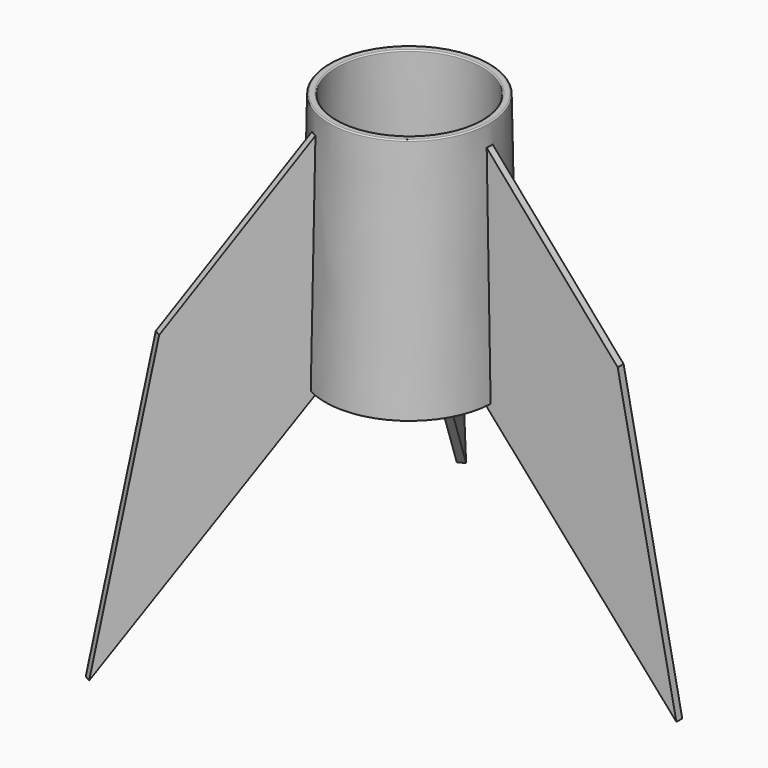
from build123d import *

# Parameters (mm, degrees)
F4_DEPTH = 0.6
F5_COUNT = 3


with BuildPart() as f2:
    # F1 (on Front) → F2 (revolve)
    with BuildSketch(Plane.XZ):
        with BuildLine():
            ThreePointArc((12.049969539, 40.0034904813), (11.9095920603, 39.9424526163), (11.8534904813, 39.800030461))
            Line((11.8534904813, 39.800030461), (12.5482025971, 0))
            Line((12.5482025971, 0), (13.7480198313, 0.0209428877))
            Line((13.7480198313, 0.0209428877), (13.0533077155, 39.8209733487))
            ThreePointArc((13.0533077155, 39.8209733487), (12.9922698505, 39.9613508275), (12.8498476952, 40.0174524064))
            Line((12.8498476952, 40.0174524064), (12.049969539, 40.0034904813))
        make_face()
    revolve(axis=Axis((0, 0, 20), (0, 0, 1)))

    # F3 (on Front) → F4 (join, symmetric)
    with BuildSketch(Plane.XZ):
        Polygon((34.4769248011, 12.0279620331), (11.884605497, 38.0174524064), (12.5477969416, 0.0232399905), (44.0591547085, -35.8122301865), align=None)
    extrude(amount=F4_DEPTH, both=True)

    # F5: F2 ×3 about axis
    f5_axis = Axis((0, 0, 20), (0, 0, 1))


with BuildPart() as f2_1:
    add(f2.part)
    for i in range(1, F5_COUNT):
        add(f2.part.rotate(f5_axis, i * 360 / F5_COUNT))


solid = f2_1.part
